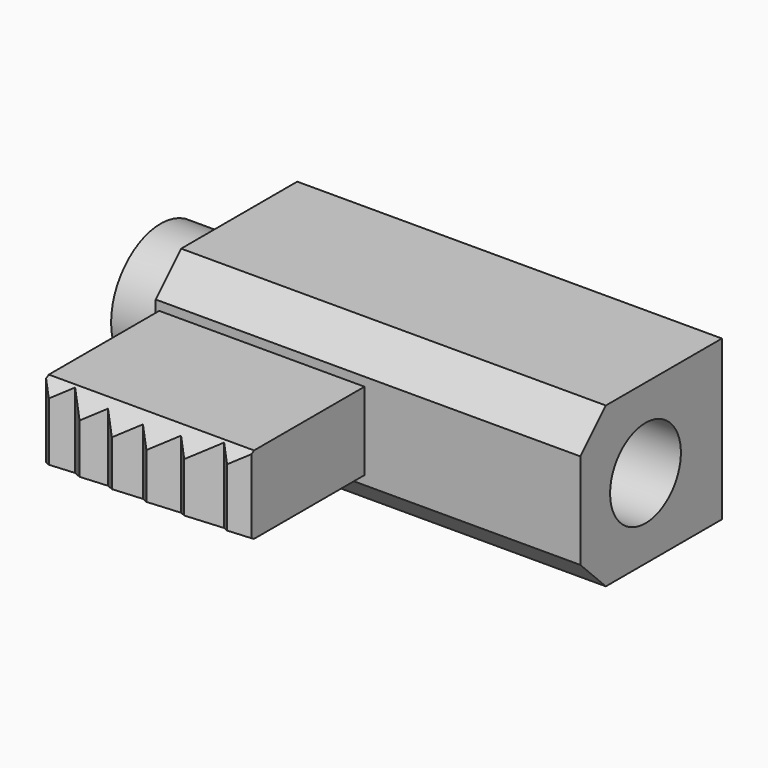
from build123d import *

# Parameters (mm, degrees)
F1_DEPTH  = 2.25
F2_DEPTH  = 1.1
F3_SIZE   = 0.9
F5_DEPTH  = 12
F6_R      = 1.75
F6_R_2    = 1.25
F7_DEPTH  = 1.7
F8_DEPTH  = 12.001
F9_R      = 0.9
F10_DEPTH = 8.2


with BuildPart() as f1:
    # F0 (on Top) → F1 (new body, symmetric)
    with BuildSketch(Plane.XY):
        Polygon((0, 0), (0, 5), (-12, 5), (-12, 0), (-11.9, 0), (-6.1, 0), align=None)
    extrude(amount=F1_DEPTH, both=True)

    # F0 (on Top) → F2 (join, symmetric)
    with BuildSketch(Plane.XY):
        Polygon((-6.1, -3.996311), (-6.1, 0), (-11.9, 0), (-11.9, -3.996311), (-11.5187, -4.377611), (-11.104953, -3.963864), (-10.478758, -4.590059), (-10.032431, -4.143733), (-9.488082, -4.688082), (-9, -4.2), (-8.511918, -4.688082), (-7.967569, -4.143733), (-7.521242, -4.590059), (-6.895047, -3.963864), (-6.4813, -4.377611), align=None)
    extrude(amount=F2_DEPTH, both=True)

    # F3
    f3_edges = [f1.edges().sort_by_distance(p)[0] for p in [
        (-6, 0, 2.25),
        (-6, 0, -2.25),
    ]]
    chamfer(f3_edges, length=F3_SIZE)

    # F4 (on Right) → F5 (cut)
    with BuildSketch(Plane.YZ):
        Polygon((-4.9, 0.52265), (-3.9, 1.1), (-4.9, 1.1), align=None)
        Polygon((-4.9, -1.1), (-3.9, -1.1), (-4.9, -0.52265), align=None)
    extrude(amount=-F5_DEPTH, mode=Mode.SUBTRACT)

    # F6 (on face) → F7 (join)
    with BuildSketch(Plane(origin=(-12, 0, 0), x_dir=(0, -1, 0), z_dir=(-1, 0, 0))):
        with Locations((-2.3, 0)):
            Circle(F6_R)
        with Locations((-2.3, 0)):
            Circle(F6_R_2, mode=Mode.SUBTRACT)
    extrude(amount=F7_DEPTH)

    # F6 (on face) → F8 (cut, through all)
    with BuildSketch(Plane(origin=(-12, 0, 0), x_dir=(0, -1, 0), z_dir=(-1, 0, 0))):
        with Locations((-2.3, 0)):
            Circle(F6_R_2)
    extrude(amount=-F8_DEPTH, mode=Mode.SUBTRACT)

    # F9 (on face) → F10 (cut)
    with BuildSketch(Plane(origin=(0, 5, 0), x_dir=(-1, 0, 0), z_dir=(0, 1, 0))):
        with Locations((9.5, 0)):
            Circle(F9_R)
    extrude(amount=-F10_DEPTH, mode=Mode.SUBTRACT)


solid = f1.part
